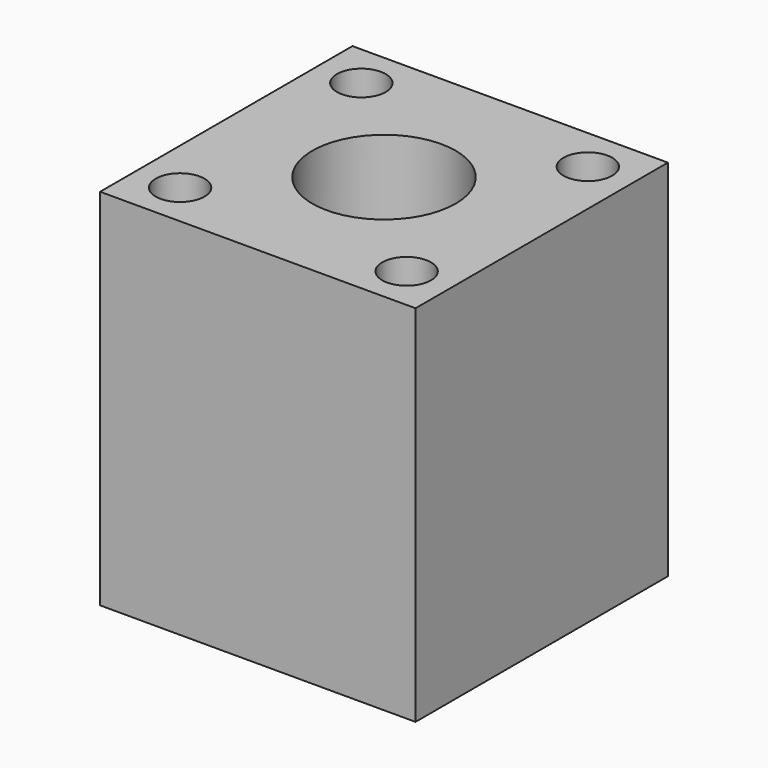
from build123d import *

# Parameters (mm, degrees)
F0_R     = 5
F1_DEPTH = 25.4
F3_D     = 3.4


with BuildPart() as f1:
    # F0 (on Top) → F1 (new body)
    with BuildSketch(Plane.XY):
        Polygon((7.9, -11), (11, -11), (11, -7.9), (11, 7.9), (11, 11), (7.9, 11), (-7.9, 11), (-11, 11), (-11, 7.9), (-11, -7.9), (-11, -11), (-7.9, -11), align=None)
        Circle(F0_R, mode=Mode.SUBTRACT)
    extrude(amount=F1_DEPTH)

    # F3 (through all)
    with Locations(Plane.XY.offset(25.4)):
        with Locations((-7.9, 7.9), (-7.9, -7.9), (7.9, 7.9), (7.9, -7.9)):
            Hole(F3_D / 2)


solid = f1.part
